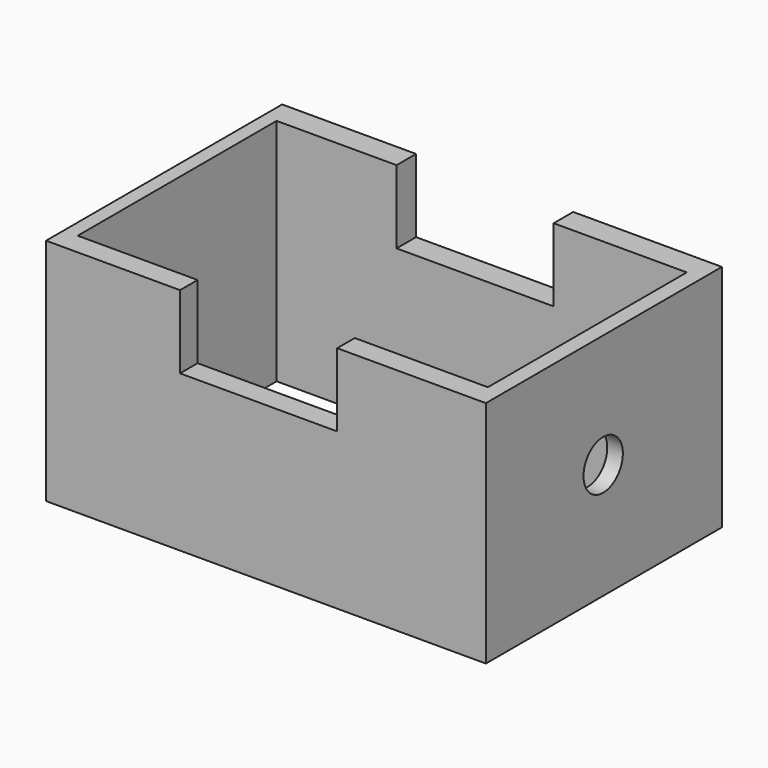
from build123d import *

# Parameters (mm, degrees)
F0_W     = 219.245888
F0_H     = 147.08846
F1_DEPTH = 114.3
F2_W     = 78.317389
F2_H     = 36.511922
F3_DEPTH = 147.089461
F4_W     = 204.472921
F4_H     = 123.958089
F5_DEPTH = 114.301
F6_R     = 12.264791
F7_DEPTH = 219.246888


with BuildPart() as f1:
    # F0 (on Top) → F1 (new body)
    with BuildSketch(Plane.XY):
        with Locations((10.201607, 0.449974)):
            Rectangle(F0_W, F0_H)
    extrude(amount=F1_DEPTH)

    # F2 (on face) → F3 (cut, through all)
    with BuildSketch(Plane.XZ.offset(73.094256)):
        with Locations((6.517709, 96.044039)):
            Rectangle(F2_W, F2_H)
    extrude(amount=-F3_DEPTH, mode=Mode.SUBTRACT)

    # F4 (on face) → F5 (cut, through all)
    with BuildSketch(Plane(origin=(0, 0, 0), x_dir=(1, 0, 0), z_dir=(0, 0, -1))):
        with Locations((9.806979, 0.144809)):
            Rectangle(F4_W, F4_H)
    extrude(amount=-F5_DEPTH, mode=Mode.SUBTRACT)

    # F6 (on face) → F7 (cut, through all)
    with BuildSketch(Plane.YZ.offset(119.824551)):
        with Locations((0, 57.527971)):
            Circle(F6_R)
    extrude(amount=-F7_DEPTH, mode=Mode.SUBTRACT)


solid = f1.part
